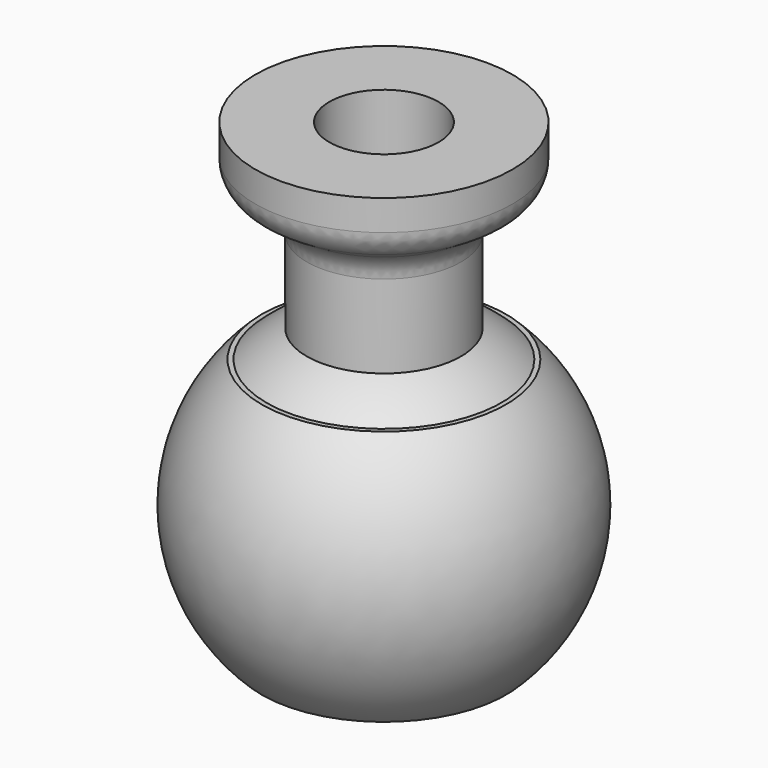
from build123d import *

# Parameters (mm, degrees)
F2_R     = 2.5
F3_DEPTH = 7.95
F6_R     = 1.7
F7_DEPTH = 10.175
F8_R     = 1
F9_R     = 1


with BuildPart() as f1:
    # F0 (on Front) → F1 (revolve)
    with BuildSketch(Plane.XZ):
        with BuildLine():
            Line((0, 3.975), (-3.801233, 3.975))
            ThreePointArc((-3.801233, 3.975), (-5.5, 0), (-3.801233, -3.975))
            Line((-3.801233, -3.975), (0, -3.975))
            Line((0, -3.975), (0, 3.975))
        make_face()
    revolve(axis=Axis((0, 0, 0), (0, 0, -1)))

    # F2 (on face) → F3 (cut, through all)
    with BuildSketch(Plane(origin=(0, 0, -3.975), x_dir=(1, 0, 0), z_dir=(0, 0, -1))):
        Circle(F2_R)
    extrude(amount=-F3_DEPTH, mode=Mode.SUBTRACT)


with BuildPart() as f5:
    # F4 (on Front) → F5 (revolve)
    with BuildSketch(Plane.XZ):
        with BuildLine():
            Line((0, 0.3), (0, 10.475))
            Line((0, 10.475), (-4, 10.475))
            Line((-4, 10.475), (-4, 8.975))
            Line((-4, 8.975), (-2.4, 7.975))
            Line((-2.4, 7.975), (-2.4, 4.837355))
            ThreePointArc((-2.4, 4.837355), (-3.058074, 4.450639), (-3.655048, 3.975))
            Line((-3.655048, 3.975), (-2.5, 3.975))
            Line((-2.5, 3.975), (-2.5, 0.3))
            Line((-2.5, 0.3), (0, 0.3))
        make_face()
    revolve(axis=Axis((0, 0, 5.3875), (0, 0, -1)))

    # F6 (on face) → F7 (cut, through all)
    with BuildSketch(Plane.XY.offset(10.475)):
        Circle(F6_R)
    extrude(amount=-F7_DEPTH, mode=Mode.SUBTRACT)

    # F8
    f8_edges = [f5.edges().sort_by_distance(p)[0] for p in [
        (2.4, 0, 7.975),
    ]]
    fillet(f8_edges, radius=F8_R)

    # F9
    f9_edges = [f5.edges().sort_by_distance(p)[0] for p in [
        (4, 0, 8.975),
    ]]
    fillet(f9_edges, radius=F9_R)


solid = Compound([f1.part, f5.part])
